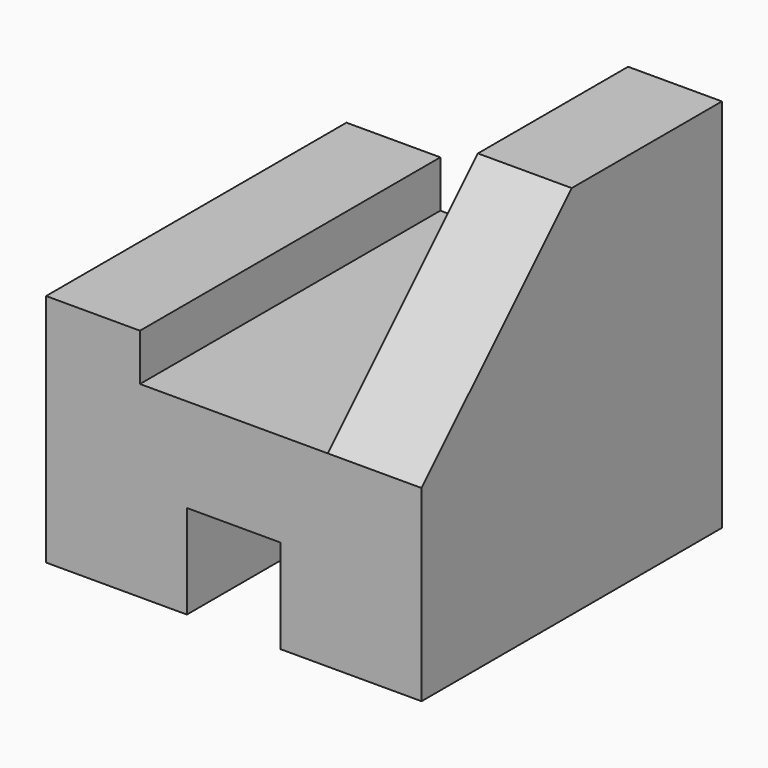
from build123d import *

# Parameters (mm, degrees)
F1_DEPTH = 101.6
F3_DEPTH = 25.4


with BuildPart() as f1:
    # F0 (on Front) → F1 (new body)
    with BuildSketch(Plane.XZ):
        Polygon((-38.1, 0), (0, 0), (0, 101.6), (-25.391597, 101.6), (-25.391597, 50.8), (-76.191597, 50.8), (-76.191597, 63.5), (-101.6, 63.5), (-101.6, 0), (-63.5, 0), (-63.5, 25.4), (-38.1, 25.4), align=None)
    extrude(amount=F1_DEPTH)

    # F2 (on face) → F3 (cut)
    with BuildSketch(Plane.YZ):
        Polygon((-101.6, 101.6), (-101.6, 50.8), (-50.8, 101.6), align=None)
    extrude(amount=-F3_DEPTH, mode=Mode.SUBTRACT)


solid = f1.part
